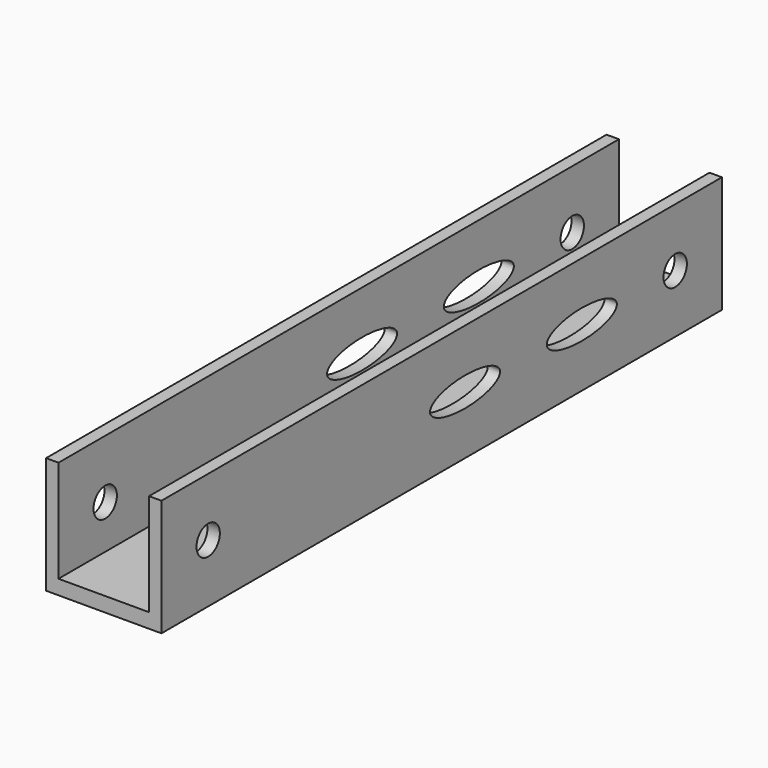
from build123d import *

# Parameters (mm, degrees)
F0_W     = 25.099074
F0_H     = 25.4
F1_DEPTH = 152.4
F2_W     = 19.695762
F2_H     = 19.05
F3_DEPTH = 203.2
F4_R     = 3.175
F5_DEPTH = 25.4
F6_W     = 19.695762
F6_H     = 3.175
F7_DEPTH = 203.2
F8_R     = 3.175
F9_DEPTH = 25.100073


with BuildPart() as f1:
    # F0 (on Front) → F1 (new body)
    with BuildSketch(Plane.XZ):
        Rectangle(F0_W, F0_H)
    extrude(amount=F1_DEPTH)

    # F2 (on face) → F3 (cut)
    with BuildSketch(Plane.XZ.offset(152.4)):
        Rectangle(F2_W, F2_H)
    extrude(amount=-F3_DEPTH, mode=Mode.SUBTRACT)

    # F4 (on face) → F5 (cut)
    with BuildSketch(Plane.YZ.offset(12.549537)):
        with Locations((-139.7, 0)):
            Circle(F4_R)
    extrude(amount=-F5_DEPTH, mode=Mode.SUBTRACT)

    # F6 (on face) → F7 (cut)
    with BuildSketch(Plane(origin=(0, 0, 0), x_dir=(-1, 0, 0), z_dir=(0, 1, 0))):
        with Locations((0, 11.1125)):
            Rectangle(F6_W, F6_H)
    extrude(amount=-F7_DEPTH, mode=Mode.SUBTRACT)

    # F8 (on face) → F9 (cut, through all)
    with BuildSketch(Plane.YZ.offset(12.549537)):
        with Locations((-12.7, 0)):
            Circle(F8_R)
        with BuildLine():
            add(Edge.make_bspline(
                [(-60.325, 0), (-60.325, 5.499261), (-74.6125, 2.749631), (-88.9, 0), (-74.6125, -2.749631), (-60.325, -5.499261), (-60.325, 0)],
                knots=[0, 0, 0, 2.094395, 2.094395, 4.18879, 4.18879, 6.283185, 6.283185, 6.283185], degree=2, weights=[1, 0.5, 1, 0.5, 1, 0.5, 1]))
        make_face()
        with BuildLine():
            add(Edge.make_bspline(
                [(-28.575, 0), (-28.575, 5.499261), (-42.8625, 2.749631), (-57.15, 0), (-42.8625, -2.749631), (-28.575, -5.499261), (-28.575, 0)],
                knots=[0, 0, 0, 2.094395, 2.094395, 4.18879, 4.18879, 6.283185, 6.283185, 6.283185], degree=2, weights=[1, 0.5, 1, 0.5, 1, 0.5, 1]))
        make_face()
    extrude(amount=-F9_DEPTH, mode=Mode.SUBTRACT)


solid = f1.part
